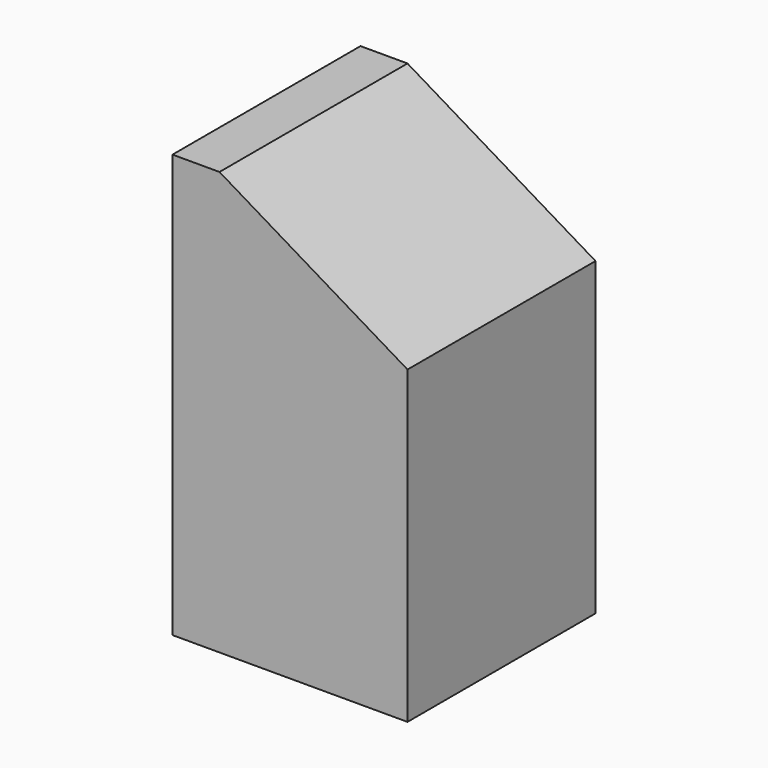
from build123d import *

# Parameters (mm, degrees)
SKETCH008_W     = 16
SKETCH008_H     = 16
PAD006_DEPTH    = 28.8
POCKET002_DEPTH = 16
PAD129_DEPTH    = 16


with BuildPart() as part:
    # Sketch008 (on Face80 of Binder002) → Pad006 (new body)
    with BuildSketch(Plane.XY.offset(-28.8)):
        with Locations((135.8, 96)):
            Rectangle(SKETCH008_W, SKETCH008_H)
    extrude(amount=PAD006_DEPTH)

    # Sketch009 (on Face2 of Pad006) → Pocket002 (cut)
    with BuildSketch(Plane.XZ.offset(-88)):
        Polygon((143.8, -9.6), (127.8, 0), (143.8, 0), align=None)
    extrude(amount=-POCKET002_DEPTH, mode=Mode.SUBTRACT)

    # Sketch129 (on Face2 of Pocket002) → Pad129 (join)
    with BuildSketch(Plane(origin=(0, 104, 0), x_dir=(-1, 0, 0), z_dir=(0, 1, 0))):
        Polygon((-127.8, 0), (-131, 0), (-143.8, -7.68), (-143.8, -10.88), (-131, -3.2), (-127.8, -3.2), align=None)
    extrude(amount=-PAD129_DEPTH)


solid = part.part
